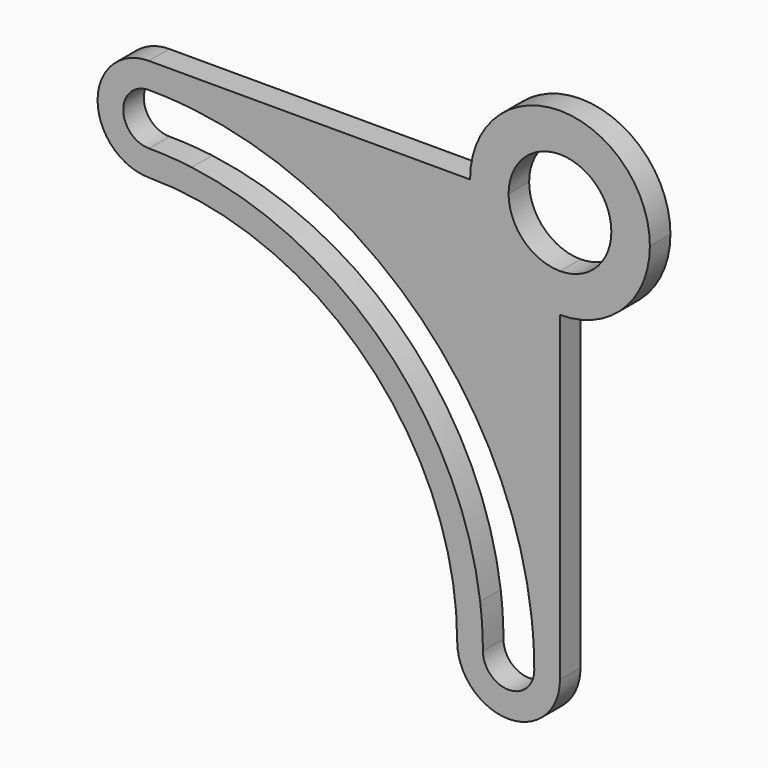
from build123d import *

# Parameters (mm, degrees)
F1_DEPTH = 5


with BuildPart() as f1:
    # F0 (on Front) → F1 (new body)
    with BuildSketch(Plane.XZ):
        with BuildLine():
            ThreePointArc((22.2689937055, 5.6673698127), (9.8946250347, 10.793001142), (4.7689937055, 23.1673698127))
            Line((4.7689937055, 23.1673698127), (-57.7310062945, 23.1673698127))
            ThreePointArc((-57.7310062945, 23.1673698127), (-52.4699634864, 21.6715704554), (-48.7828135685, 17.631655527))
            ThreePointArc((-48.7828135685, 17.631655527), (-4.6979977055, -3.7996215983), (16.7332794198, -47.8844374613))
            ThreePointArc((16.7332794198, -47.8844374613), (20.7731943482, -51.5715873792), (22.2689937055, -56.8326301873))
            Line((22.2689937055, -56.8326301873), (22.2689937055, 5.6673698127))
        make_face()
        with BuildLine():
            ThreePointArc((-49.4029892828, 7.631655527), (-53.0064503819, 4.3538250418), (-57.7310062945, 3.1673698127))
            ThreePointArc((-57.7310062945, 3.1673698127), (-15.3045994233, -14.4062233161), (2.2689937055, -56.8326301873))
            ThreePointArc((2.2689937055, -56.8326301873), (3.4554489346, -52.1080742747), (6.7332794198, -48.5046131756))
            ThreePointArc((6.7332794198, -48.5046131756), (-11.7690655174, -10.8706894101), (-49.4029892828, 7.631655527))
        make_face()
        with BuildLine():
            ThreePointArc((6.7332794198, -48.5046131756), (3.4554489346, -52.1080742747), (2.2689937055, -56.8326301873))
            Line((2.2689937055, -56.8326301873), (7.2689937055, -56.8326301873))
            ThreePointArc((7.2689937055, -56.8326301873), (7.1349268732, -52.6600153853), (6.7332794198, -48.5046131756))
        make_face()
        with BuildLine():
            ThreePointArc((2.2689937055, -56.8326301873), (12.2689937055, -66.8326301873), (22.2689937055, -56.8326301873))
            Line((22.2689937055, -56.8326301873), (17.2689937055, -56.8326301873))
            ThreePointArc((17.2689937055, -56.8326301873), (12.2689937055, -61.8326301873), (7.2689937055, -56.8326301873))
            Line((7.2689937055, -56.8326301873), (2.2689937055, -56.8326301873))
        make_face()
        with BuildLine():
            Line((17.2689937055, -56.8326301873), (22.2689937055, -56.8326301873))
            ThreePointArc((22.2689937055, -56.8326301873), (20.7731943482, -51.5715873792), (16.7332794198, -47.8844374613))
            ThreePointArc((16.7332794198, -47.8844374613), (17.134945341, -52.3505229023), (17.2689937055, -56.8326301873))
        make_face()
        with BuildLine():
            Line((-57.7310062945, 18.1673698127), (-57.7310062945, 23.1673698127))
            ThreePointArc((-57.7310062945, 23.1673698127), (-67.7310062945, 13.1673698127), (-57.7310062945, 3.1673698127))
            Line((-57.7310062945, 3.1673698127), (-57.7310062945, 8.1673698127))
            ThreePointArc((-57.7310062945, 8.1673698127), (-62.7310062945, 13.1673698127), (-57.7310062945, 18.1673698127))
        make_face()
        with BuildLine():
            ThreePointArc((-48.7828135685, 17.631655527), (-52.4699634864, 21.6715704554), (-57.7310062945, 23.1673698127))
            Line((-57.7310062945, 23.1673698127), (-57.7310062945, 18.1673698127))
            ThreePointArc((-57.7310062945, 18.1673698127), (-53.2488990095, 18.0333214482), (-48.7828135685, 17.631655527))
        make_face()
        with BuildLine():
            Line((-57.7310062945, 8.1673698127), (-57.7310062945, 3.1673698127))
            ThreePointArc((-57.7310062945, 3.1673698127), (-53.0064503819, 4.3538250418), (-49.4029892828, 7.631655527))
            ThreePointArc((-49.4029892828, 7.631655527), (-53.5583914925, 8.0333029804), (-57.7310062945, 8.1673698127))
        make_face()
        with BuildLine():
            Line((12.2689937055, 23.1673698127), (4.7689937055, 23.1673698127))
            ThreePointArc((4.7689937055, 23.1673698127), (9.8946250347, 10.793001142), (22.2689937055, 5.6673698127))
            Line((22.2689937055, 5.6673698127), (22.2689937055, 13.1673698127))
            ThreePointArc((22.2689937055, 13.1673698127), (15.1979258936, 16.0963020009), (12.2689937055, 23.1673698127))
        make_face()
        with BuildLine():
            ThreePointArc((22.2689937055, 5.6673698127), (34.6433623763, 10.793001142), (39.7689937055, 23.1673698127))
            ThreePointArc((39.7689937055, 23.1673698127), (22.2689937055, 40.6673698127), (4.7689937055, 23.1673698127))
            Line((4.7689937055, 23.1673698127), (12.2689937055, 23.1673698127))
            ThreePointArc((12.2689937055, 23.1673698127), (22.2689937055, 33.1673698127), (32.2689937055, 23.1673698127))
            ThreePointArc((32.2689937055, 23.1673698127), (29.3400615174, 16.0963020009), (22.2689937055, 13.1673698127))
            Line((22.2689937055, 13.1673698127), (22.2689937055, 5.6673698127))
        make_face()
    extrude(amount=F1_DEPTH)


solid = f1.part
